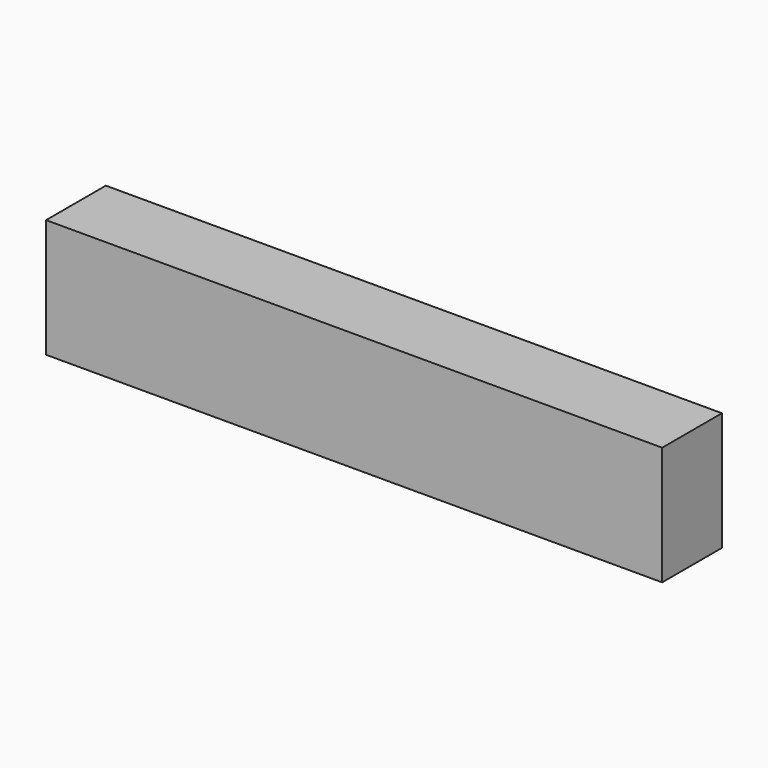
from build123d import *

# Parameters (mm, degrees)
F0_W     = 33
F0_H     = 6.35
F1_DEPTH = 4


with BuildPart() as f1:
    # F0 (on Front) → F1 (new body)
    with BuildSketch(Plane.XZ):
        with Locations((-1.1e-05, 3.72018)):
            Rectangle(F0_W, F0_H)
    extrude(amount=F1_DEPTH)


solid = f1.part
